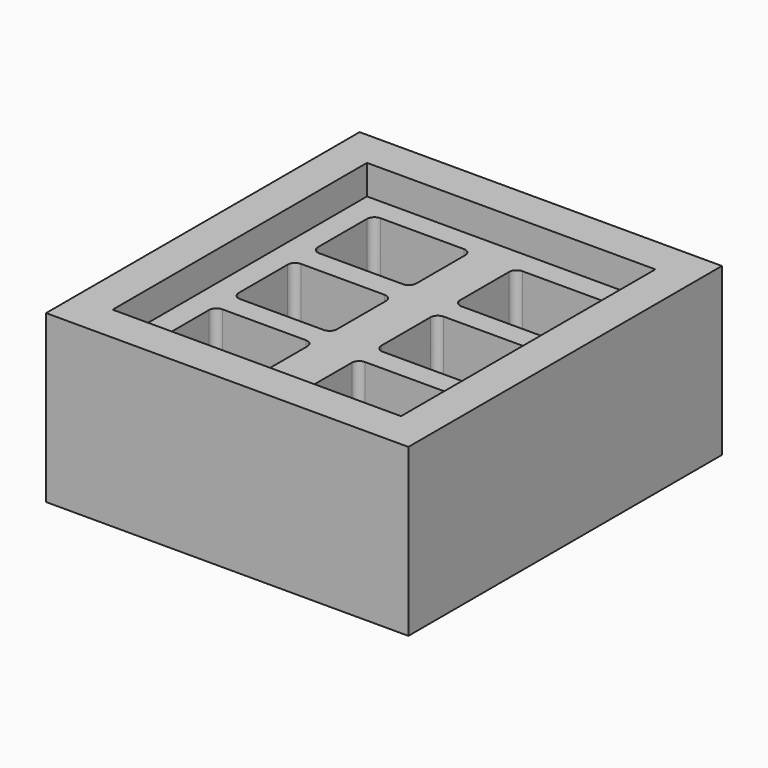
from build123d import *

# Parameters (mm, degrees)
PAD001_DEPTH = 10.3
FILLET_R     = 1
SKETCH_W     = 49
SKETCH_H     = 53
PAD_DEPTH    = 22.5
SKETCH001_W  = 39
SKETCH001_H  = 43
POCKET_DEPTH = 4


with BuildPart() as cup001:
    # Sketch002 → Pad001 (new body)
    with BuildSketch(Plane.XZ):
        with BuildLine():
            Line((-6.65, 0), (6.65, 0))
            Line((6.65, 0), (6.65, -7.85))
            ThreePointArc((-6.65, -7.85), (0, -14.5), (6.65, -7.85))
            Line((-6.65, -7.85), (-6.65, 0))
        make_face()
    extrude(amount=PAD001_DEPTH)

    # Fillet
    fillet_edges = [cup001.edges().sort_by_distance(p)[0] for p in [
        (-6.65, -10.3, -3.925),
        (0, -10.3, -14.5),
        (6.65, -10.3, -3.925),
        (-6.65, 0, -3.925),
        (6.65, 0, -3.925),
        (0, 0, -14.5),
    ]]
    fillet(fillet_edges, radius=FILLET_R)


with BuildPart() as cup001_1:
    # Body001 placement: moved
    add(cup001.part.moved(Location((9.65, 16.95, 18.5))))


with BuildPart() as cup001_2:
    # Clone placement: moved
    add(cup001_1.part.moved(Location((0, 1.45, 0))))


with BuildPart() as cup002:
    # Clone001 base: copy of cup001
    add(cup001_2.part)


with BuildPart() as cup002_1:
    # Clone001 placement: moved
    add(cup002.part.moved(Location((0, -13.3, 0))))


with BuildPart() as cup003:
    # Clone002 base: copy of cup002
    add(cup002_1.part)


with BuildPart() as cup003_1:
    # Clone002 placement: moved
    add(cup003.part.moved(Location((0, -13.3, 0))))


with BuildPart() as cup004:
    # Clone003 base: copy of cup003
    add(cup003_1.part)


with BuildPart() as cup004_1:
    # Clone003 placement: moved
    add(cup004.part.moved(Location((-19.3, 26.7, 0))))


with BuildPart() as cup005:
    # Clone004 base: copy of cup004
    add(cup004_1.part)


with BuildPart() as cup005_1:
    # Clone004 placement: moved
    add(cup005.part.moved(Location((0, -13.4, 0))))


with BuildPart() as cup006:
    # Clone005 base: copy of cup005
    add(cup005_1.part)


with BuildPart() as cup006_1:
    # Clone005 placement: moved
    add(cup006.part.moved(Location((0, -13.3, 0))))


with BuildPart() as mold_bottom:
    # Sketch → Pad (new body)
    with BuildSketch(Plane.XY):
        Rectangle(SKETCH_W, SKETCH_H)
    extrude(amount=PAD_DEPTH)

    # Sketch001 (on Face6 of Pad) → Pocket (cut)
    with BuildSketch(Plane.XY.offset(22.5)):
        Rectangle(SKETCH001_W, SKETCH001_H)
    extrude(amount=-POCKET_DEPTH, mode=Mode.SUBTRACT)

    # Cut: cut cup001
    add(cup001_2.part, mode=Mode.SUBTRACT)

    # Cut001: cut cup002
    add(cup002_1.part, mode=Mode.SUBTRACT)

    # Cut002: cut cup003
    add(cup003_1.part, mode=Mode.SUBTRACT)

    # Cut003: cut cup004
    add(cup004_1.part, mode=Mode.SUBTRACT)

    # Cut004: cut cup005
    add(cup005_1.part, mode=Mode.SUBTRACT)

    # Cut005: cut cup006
    add(cup006_1.part, mode=Mode.SUBTRACT)


solid = mold_bottom.part
